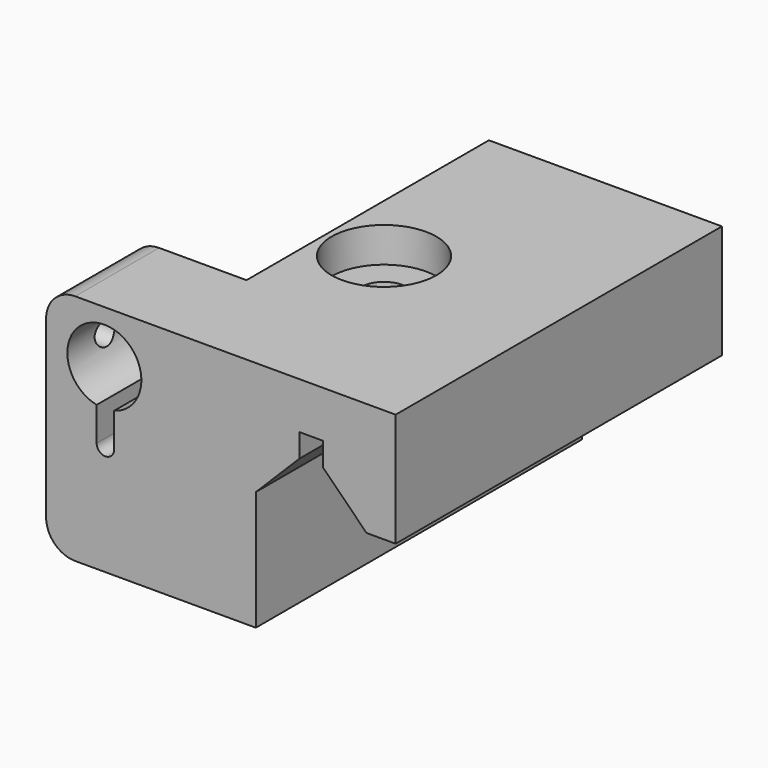
from build123d import *

# Parameters (mm, degrees)
F1_DEPTH        = 70
F2_W            = 28.213582236
F2_H            = 30.1489157287
F3_DEPTH        = 52
F4_R            = 5
F6_DEPTH        = 18
F7_W            = 4
F7_H            = 4
F8_DEPTH        = 70.001
F9_R            = 4
F10_DEPTH       = 40.001
F11_R           = 9
F12_DEPTH       = 6
F14_D           = 4
F14_DEPTH       = 5.5
F14_TIP         = 1.2017212381
F17_D           = 3.2
F17_DEPTH       = 8
F17_CBORE_D     = 6.5
F17_CBORE_DEPTH = 3
F17_TIP         = 0.9613769904
F18_D           = 3.2
F18_DEPTH       = 8
F18_TIP         = 0.9613769904
F19_D           = 4.3
F19_DEPTH       = 8
F19_TIP         = 1.2918503309


with BuildPart() as f1:
    # F0 (on Front) → F1 (new body)
    with BuildSketch(Plane.XZ):
        Polygon((28.2647607103, 22.518672328), (-31.7352392897, 22.518672328), (-31.7352392897, -17.481327672), (4.2647607103, -17.481327672), (4.2647607103, -9.1914124787), (4.2647607103, 3.018672328), (13.7647607103, 12.518672328), (23.2647607103, 3.018672328), (28.2647607103, 3.018672328), align=None)
    extrude(amount=F1_DEPTH)

    # F2 (on face) → F3 (cut)
    with BuildSketch(Plane(origin=(0, 0, 0), x_dir=(-1, 0, 0), z_dir=(0, 1, 0))):
        with Locations((25.8420304077, 12.5931301923)):
            Rectangle(F2_W, F2_H)
    extrude(amount=-F3_DEPTH, mode=Mode.SUBTRACT)

    # F4
    f4_edges = [f1.edges().sort_by_distance(p)[0] for p in [
        (-31.735239, -61, 22.518672),
        (-31.735239, -35, -17.481328),
    ]]
    fillet(f4_edges, radius=F4_R)

    # F5 (on face) → F6 (cut, through all)
    with BuildSketch(Plane.XZ.offset(70)):
        with BuildLine():
            Line((-20.0560601684, 1.518672328), (-20.0560601684, 7.3947146633))
            ThreePointArc((-20.0560601684, 7.3947146633), (-21.9196415591, 19.8659942674), (-23.0560601684, 7.3075587236))
            Line((-23.0560601684, 7.3075587236), (-23.0560601684, 1.518672328))
            ThreePointArc((-23.0560601684, 1.518672328), (-21.5560601684, 0.018672328), (-20.0560601684, 1.518672328))
        make_face()
    extrude(amount=-F6_DEPTH, mode=Mode.SUBTRACT)

    # F7 (on face) → F8 (cut, through all)
    with BuildSketch(Plane.XZ.offset(70)):
        with Locations((13.7647607103, 12.518672328)):
            Rectangle(F7_W, F7_H)
    extrude(amount=-F8_DEPTH, mode=Mode.SUBTRACT)

    # F9 (on face) → F10 (cut, through all)
    with BuildSketch(Plane(origin=(0, 0, -17.481327672), x_dir=(1, 0, 0), z_dir=(0, 0, -1))):
        with Locations((-1.7352392897, 35)):
            Circle(F9_R)
    extrude(amount=-F10_DEPTH, mode=Mode.SUBTRACT)

    # F11 (on face) → F12 (cut)
    with BuildSketch(Plane.XY.offset(22.518672328)):
        with Locations((-1.7352392897, -35)):
            Circle(F11_R)
    extrude(amount=-F12_DEPTH, mode=Mode.SUBTRACT)

    # F14
    with Locations(Plane(origin=(0, 0, -17.481327672), x_dir=(1, 0, 0), z_dir=(0, 0, -1))):
        with Locations((-19.7227925898, 50), (-20.3082847504, 20)):
            Hole(F14_D / 2, depth=F14_DEPTH)
            with Locations((0, 0, -(F14_DEPTH + F14_TIP / 2))):  # 118° drill point
                Cone(0, F14_D / 2, F14_TIP, mode=Mode.SUBTRACT)

    # F17
    with Locations(Plane(origin=(-31.7352392897, 0, 0), x_dir=(0, -1, 0), z_dir=(-1, 0, 0))):
        with Locations((61, 4.518672328)):
            CounterBoreHole(F17_D / 2, F17_CBORE_D / 2, F17_CBORE_DEPTH, depth=F17_DEPTH)
            with Locations((0, 0, -(F17_DEPTH + F17_TIP / 2))):  # 118° drill point
                Cone(0, F17_D / 2, F17_TIP, mode=Mode.SUBTRACT)

    # F18 (one way)
    with BuildSketch(Plane(origin=(-20.0560601684, 0, 0), x_dir=(0, -1, 0), z_dir=(-1, 0, 0))):
        with Locations((61, 4.518672328)):
            Circle(F18_D / 2)
    extrude(amount=-F18_DEPTH, mode=Mode.SUBTRACT)
    with Locations(Plane(origin=(-20.0560601684, 0, 0), x_dir=(0, -1, 0), z_dir=(-1, 0, 0))):
        with Locations((61, 4.518672328)):
            with Locations((0, 0, -(F18_DEPTH + F18_TIP / 2))):  # 118° drill point
                Cone(0, F18_D / 2, F18_TIP, mode=Mode.SUBTRACT)

    # F19
    with Locations(Plane(origin=(-31.7352392897, 0, 0), x_dir=(0, -1, 0), z_dir=(-1, 0, 0))):
        with Locations((62, 13.518672328)):
            Hole(F19_D / 2, depth=F19_DEPTH)
            with Locations((0, 0, -(F19_DEPTH + F19_TIP / 2))):  # 118° drill point
                Cone(0, F19_D / 2, F19_TIP, mode=Mode.SUBTRACT)


solid = f1.part
